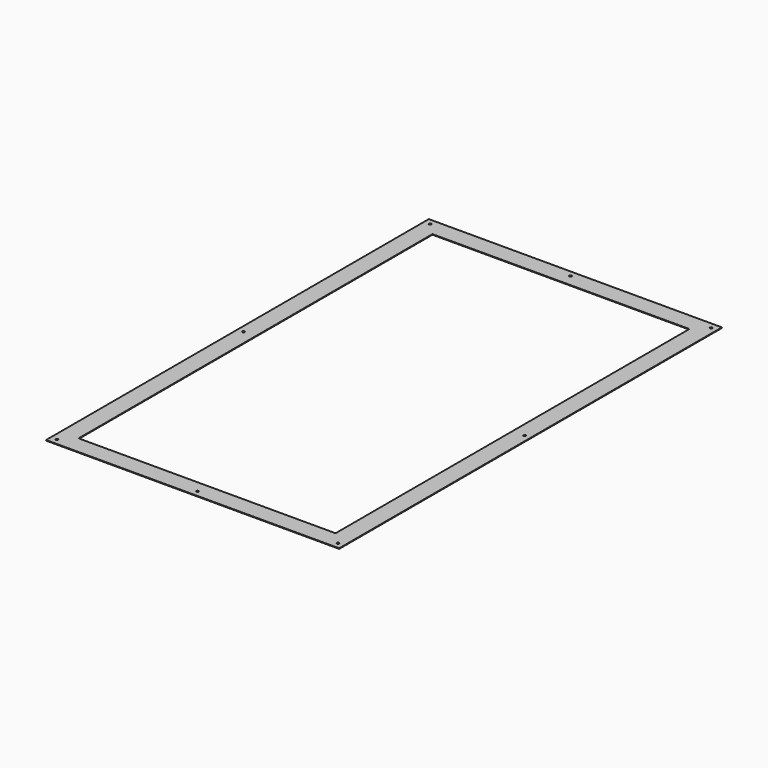
from build123d import *

# Parameters (mm, degrees)
F0_W     = 617.5375
F0_H     = 1008.0625
F0_W_2   = 541.3375
F0_H_2   = 931.8625
F1_DEPTH = 1.21412
F3_D     = 4.7625


with BuildPart() as f1:
    # F0 (on Top) → F1 (new body)
    with BuildSketch(Plane.XY):
        Rectangle(F0_W, F0_H)
        Rectangle(F0_W_2, F0_H_2, mode=Mode.SUBTRACT)
    extrude(amount=F1_DEPTH)

    # F3 (through all)
    with Locations(Plane(origin=(0, 0, 0), x_dir=(1, 0, 0), z_dir=(0, 0, -1))):
        with Locations((-296.06875, 491.33125), (0, 491.33125), (296.06875, 491.33125), (296.06875, 0), (296.06875, -491.33125), (0, -491.33125), (-296.06875, -491.33125), (-296.06875, 0)):
            Hole(F3_D / 2)


solid = f1.part
